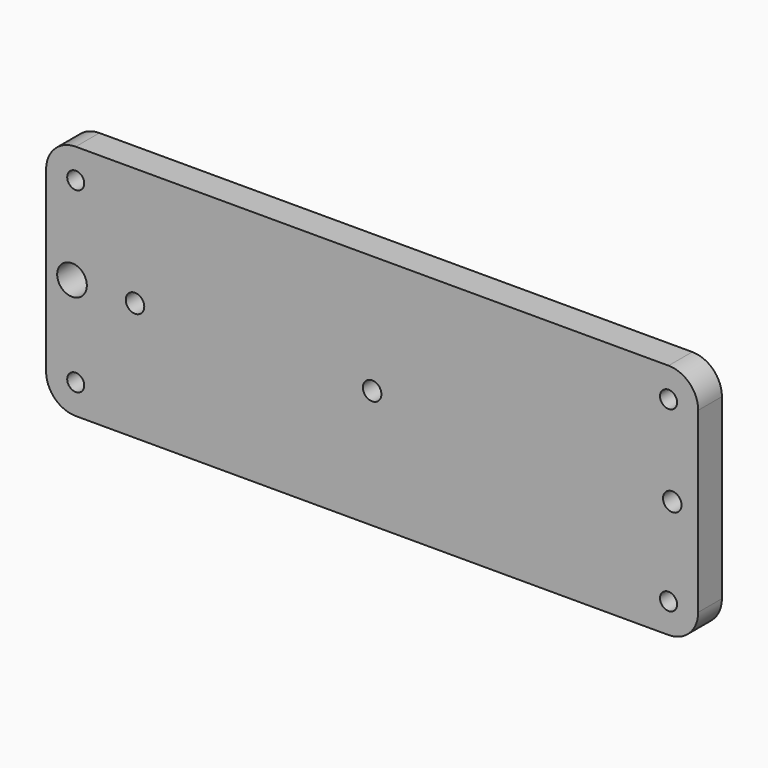
from build123d import *

# Parameters (mm, degrees)
F0_R     = 3.65125
F2_DEPTH = 12.7
F1_R     = 6.35
F1_R_2   = 3.96875
F3_DEPTH = 25.4


with BuildPart() as f2:
    # F0 (on Front) → F2 (new body)
    with BuildSketch(Plane.XZ):
        with BuildLine():
            ThreePointArc((0, 12.7), (3.719744, 3.719744), (12.7, 0))
            Line((12.7, 0), (266.7, 0))
            ThreePointArc((266.7, 0), (275.680256, 3.719744), (279.4, 12.7))
            Line((279.4, 12.7), (279.4, 88.9))
            ThreePointArc((279.4, 88.9), (275.680256, 97.880256), (266.7, 101.6))
            Line((266.7, 101.6), (12.7, 101.6))
            ThreePointArc((12.7, 101.6), (3.719744, 97.880256), (0, 88.9))
            Line((0, 88.9), (0, 12.7))
        make_face()
        with Locations((12.7, 12.7)):
            Circle(F0_R, mode=Mode.SUBTRACT)
        with Locations((266.7, 12.7)):
            Circle(F0_R, mode=Mode.SUBTRACT)
        with Locations((12.7, 88.9)):
            Circle(F0_R, mode=Mode.SUBTRACT)
        with Locations((266.7, 88.9)):
            Circle(F0_R, mode=Mode.SUBTRACT)
    extrude(amount=F2_DEPTH)

    # F1 (on face) → F3 (cut)
    with BuildSketch(Plane.XZ):
        with Locations((11.1125, 50.8)):
            Circle(F1_R)
        with Locations((38.1, 50.8)):
            Circle(F1_R_2)
        with Locations((139.7, 50.8)):
            Circle(F1_R_2)
        with Locations((268.2875, 50.8)):
            Circle(F1_R_2)
    extrude(amount=F3_DEPTH, mode=Mode.SUBTRACT)


solid = f2.part
